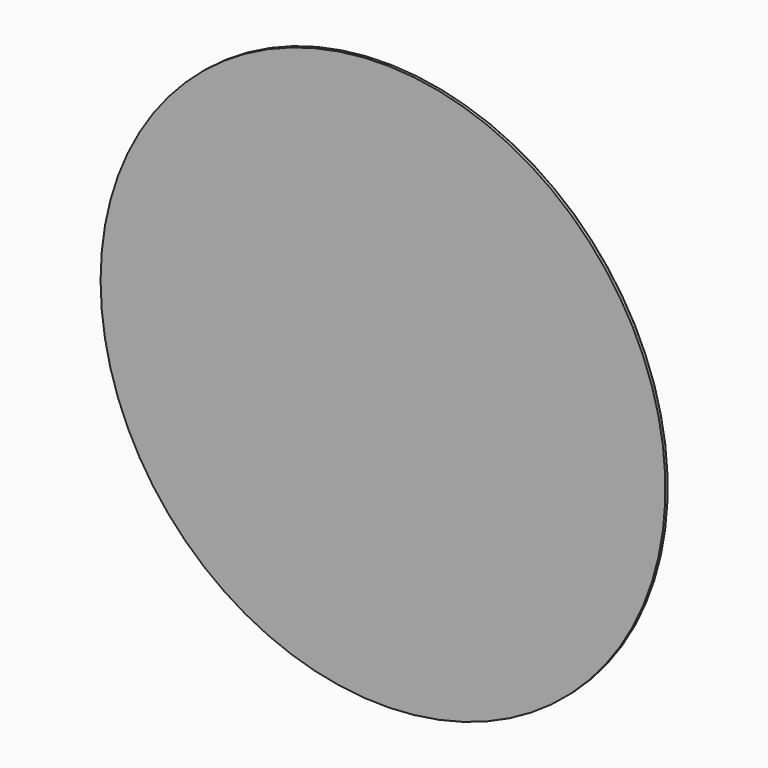
from build123d import *


with BuildPart() as f1:
    # F0 (on Top) → F1 (revolve)
    with BuildSketch(Plane.XY):
        with BuildLine():
            Line((-100, 0), (0, 0))
            Line((0, 0), (0, 15))
            add(Edge.make_bspline(
                [(-100, 1), (-97.285843, 5.541648), (-60.791034, 14.837469), (0, 15)],
                knots=[0, 0, 0, 0, 100.975244, 100.975244, 100.975244, 100.975244], degree=3))
            Line((-100, 1), (-100, 0))
        make_face()
    revolve(axis=Axis((0, 7.5, 0), (0, 1, 0)))


solid = f1.part
